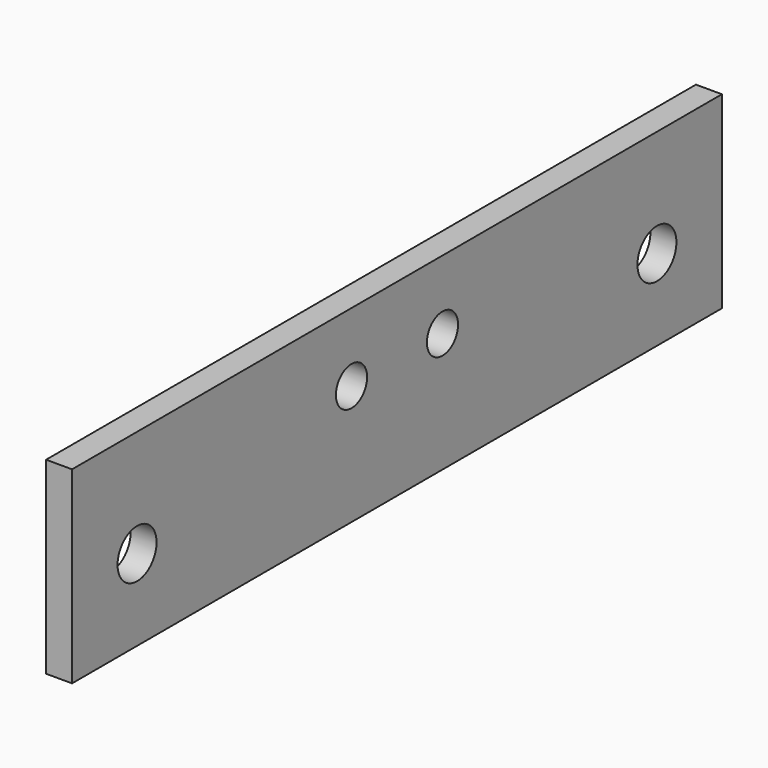
from build123d import *

# Parameters (mm, degrees)
PAD_DEPTH     = 16
SKETCH001_R   = 12
SKETCH001_R_2 = 15
POCKET_DEPTH  = 20


with BuildPart() as part:
    # Sketch → Pad (new body)
    with BuildSketch(Plane.YZ):
        Polygon((0, 0), (0, 116), (500, 116), (500, 0), (250, 0), align=None)
    extrude(amount=-PAD_DEPTH)

    # Sketch001 (on Face7 of Pad) → Pocket (cut)
    with BuildSketch(Plane(origin=(-16, 0, 0), x_dir=(0, -1, 0), z_dir=(-1, 0, 0))):
        with Locations((-215, 73.70748)):
            Circle(SKETCH001_R)
        with Locations((-285, 73.70748)):
            Circle(SKETCH001_R)
        with Locations((-450, 50)):
            Circle(SKETCH001_R_2)
        with Locations((-50, 50)):
            Circle(SKETCH001_R_2)
    extrude(amount=-POCKET_DEPTH, mode=Mode.SUBTRACT)


solid = part.part
